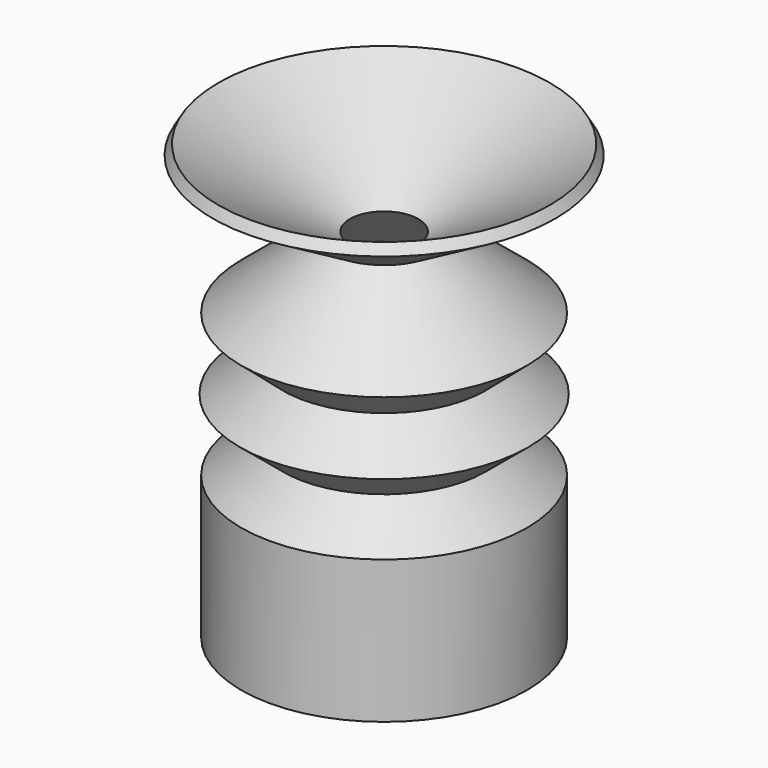
from build123d import *


with BuildPart() as f1:
    # F0 (on Front) → F1 (revolve)
    with BuildSketch(Plane.XZ):
        Polygon((2.75, 3), (2.75, 0), (5, 0), (5, 5), (3.540201, 6.25), (5.04634, 7.5), (3.540201, 8.75), (5, 10), (1.98772, 12.5), (6, 14.855034), (5.79752, 15.2), (1.19752, 12.5), (4.209799, 10), (2.75, 8.75), (4.25614, 7.5), (2.75, 6.25), (2.75, 4.6), (4.5, 4.6), (4.5, 3), align=None)
    revolve(axis=Axis((0, 0, 4.676475), (0, 0, 1)))


solid = f1.part
